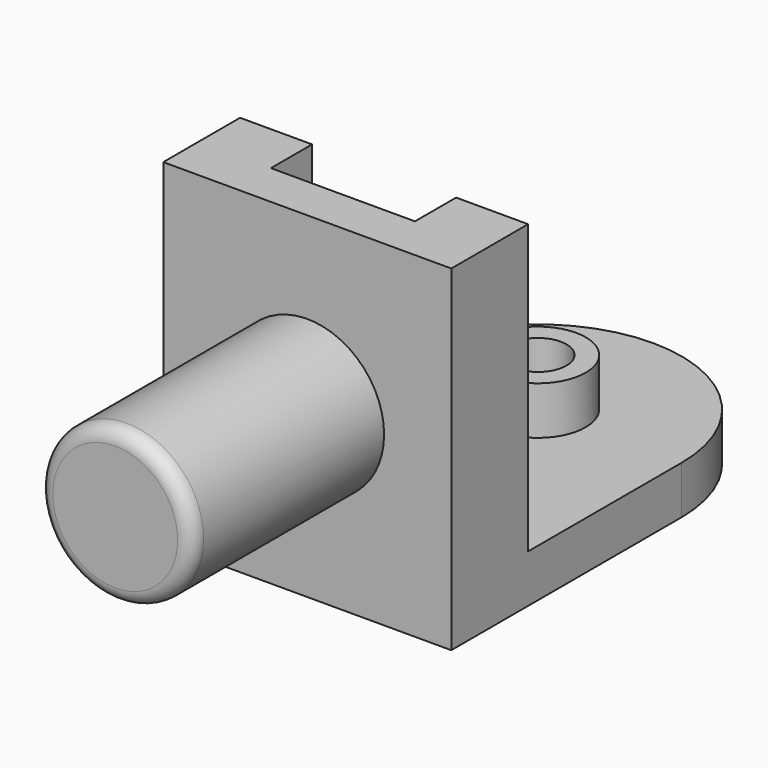
from build123d import *

# Parameters (mm, degrees)
F0_R      = 10
F1_DEPTH  = 10
F0_R_2    = 6
F2_DEPTH  = 20
F0_W      = 60
F0_H      = 20
F3_DEPTH  = 70
F4_R      = 16
F5_DEPTH  = 50
F6_R      = 3
F9_DEPTH  = 77.2
F10_DEPTH = 15
F11_DEPTH = 15


with BuildPart() as f1:
    # F0 (on Top) → F1 (new body)
    with BuildSketch(Plane.XY):
        with BuildLine():
            ThreePointArc((-5.564519, 60.884742), (-26.777723, 52.097945), (-35.564519, 30.884742))
            Line((-35.564519, 30.884742), (-35.564519, -9.115258))
            Line((-35.564519, -9.115258), (24.435481, -9.115258))
            Line((24.435481, -9.115258), (24.435481, 30.884742))
            ThreePointArc((24.435481, 30.884742), (15.648684, 52.097945), (-5.564519, 60.884742))
        make_face()
        with Locations((-5.564519, 30.884742)):
            Circle(F0_R, mode=Mode.SUBTRACT)
    extrude(amount=F1_DEPTH)

    # F0 (on Top) → F2 (join)
    with BuildSketch(Plane.XY):
        with Locations((-5.564519, 30.884742)):
            Circle(F0_R)
        with Locations((-5.564519, 30.884742)):
            Circle(F0_R_2, mode=Mode.SUBTRACT)
    extrude(amount=F2_DEPTH)

    # F0 (on Top) → F3 (join)
    with BuildSketch(Plane.XY):
        with Locations((-5.564519, -19.115258)):
            Rectangle(F0_W, F0_H)
    extrude(amount=F3_DEPTH)

    # F4 (on face) → F5 (join)
    with BuildSketch(Plane.XZ.offset(29.115258)):
        with Locations((-5.564519, 35)):
            Circle(F4_R)
    extrude(amount=F5_DEPTH)

    # F6
    f6_edges = [f1.edges().sort_by_distance(p)[0] for p in [
        (-21.564519, -79.115258, 35),
    ]]
    fillet(f6_edges, radius=F6_R)

    # F8 (on face) → F9 (cut)
    with BuildSketch(Plane(origin=(-35.564519, 0, 0), x_dir=(0, -1, 0), z_dir=(-1, 0, 0))):
        Polygon((19.833226, 70), (9.115258, 70), (9.115258, 30), align=None)
    extrude(amount=-F9_DEPTH, mode=Mode.SUBTRACT)

    # F8 (on face) → F10 (join)
    with BuildSketch(Plane(origin=(-35.564519, 0, 0), x_dir=(0, -1, 0), z_dir=(-1, 0, 0))):
        Polygon((19.833226, 70), (9.115258, 70), (9.115258, 30), align=None)
        Polygon((19.833226, 70), (9.115258, 30), (9.115258, 10), (-30.884742, 10), (-30.884742, 0), (29.115258, 0), (29.115258, 70), align=None)
    extrude(amount=-F10_DEPTH)

    # F7 (on face) → F11 (join)
    with BuildSketch(Plane.YZ.offset(24.435481)):
        Polygon((-9.115258, 10), (-9.115258, 30), (-19.833226, 70), (-29.115258, 70), (-29.115258, 0), (30.884742, 0), (30.884742, 10), align=None)
        Polygon((-9.115258, 30), (-9.115258, 70), (-19.833226, 70), align=None)
    extrude(amount=-F11_DEPTH)


solid = f1.part
